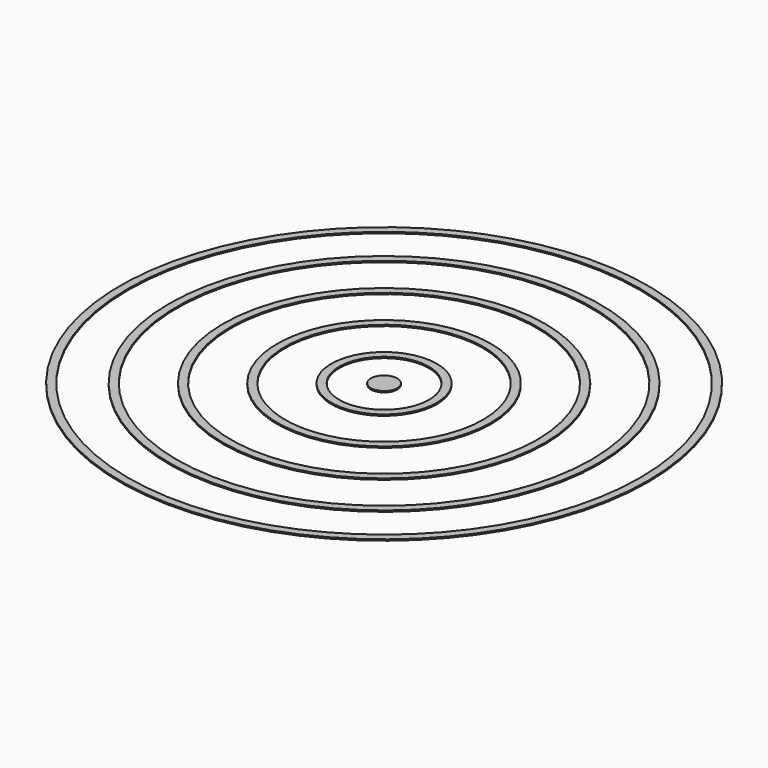
from build123d import *

# Parameters (mm, degrees)
F0_R     = 100
F0_R_2   = 97
F0_R_3   = 81.5
F0_R_4   = 78.5
F0_R_5   = 61
F0_R_6   = 58
F0_R_7   = 40.5
F0_R_8   = 37.500001
F0_R_9   = 20
F0_R_10  = 17
F0_R_11  = 5
F1_DEPTH = 0.5


with BuildPart() as f1:
    # F0 (on Top) → F1 (new body)
    with BuildSketch(Plane.XY):
        Circle(F0_R)
        Circle(F0_R_2, mode=Mode.SUBTRACT)
        Circle(F0_R_3)
        Circle(F0_R_4, mode=Mode.SUBTRACT)
        Circle(F0_R_5)
        Circle(F0_R_6, mode=Mode.SUBTRACT)
        Circle(F0_R_7)
        Circle(F0_R_8, mode=Mode.SUBTRACT)
        Circle(F0_R_9)
        Circle(F0_R_10, mode=Mode.SUBTRACT)
        Circle(F0_R_11)
    extrude(amount=F1_DEPTH)


solid = f1.part
